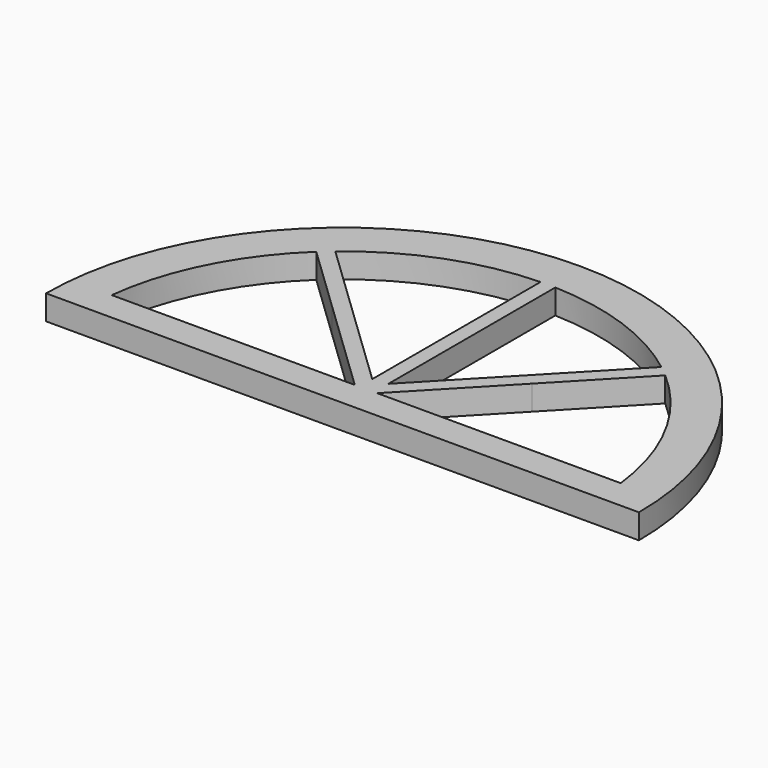
from build123d import *

# Parameters (mm, degrees)
F1_DEPTH = 25


with BuildPart() as f1:
    # F0 (on Top) → F1 (new body)
    with BuildSketch(Plane.XY):
        with BuildLine():
            Line((-300, 0), (300, 0))
            ThreePointArc((300, 0), (0, 300), (-300, 0))
        make_face()
        with BuildLine():
            Line((-11.572157, 30), (-257.588138, 30))
            ThreePointArc((-257.588138, 30), (-231.676934, 116.522303), (-177.663751, 188.910668))
            Line((-177.663751, 188.910668), (-110.826445, 124.963055))
            Line((-110.826445, 124.963055), (-11.572157, 30))
        make_face(mode=Mode.SUBTRACT)
        with BuildLine():
            ThreePointArc((169.856684, 195.960087), (229.266126, 121.196915), (257.588138, 30))
            Line((257.588138, 30), (11.071837, 30))
            Line((11.071837, 30), (96.545549, 119.336136))
            Line((96.545549, 119.336136), (169.856684, 195.960087))
        make_face(mode=Mode.SUBTRACT)
        with BuildLine():
            Line((-7, 46.385215), (-100.456727, 135.801364))
            Line((-100.456727, 135.801364), (-166.405643, 198.898996))
            ThreePointArc((-166.405643, 198.898996), (-91.801305, 242.536944), (-7, 259.234737))
            Line((-7, 259.234737), (-7, 211.881727))
            Line((-7, 211.881727), (-7, 46.385215))
        make_face(mode=Mode.SUBTRACT)
        with BuildLine():
            Line((158.447307, 205.295153), (8, 48.049365))
            Line((8, 48.049365), (8, 211.881727))
            Line((8, 211.881727), (8, 259.205804))
            ThreePointArc((8, 259.205804), (87.48009, 244.128824), (158.447307, 205.295153))
        make_face(mode=Mode.SUBTRACT)
    extrude(amount=F1_DEPTH)


solid = f1.part
